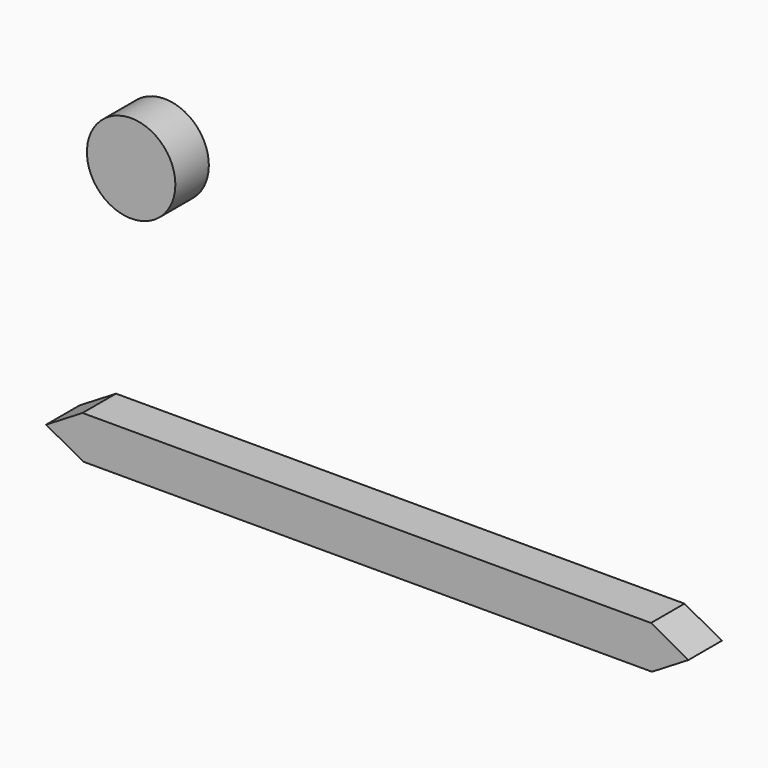
from build123d import *

# Parameters (mm, degrees)
F0_R     = 7.5
F1_DEPTH = 7.1


with BuildPart() as f1:
    # F0 (on Front) → F1 (new body)
    with BuildSketch(Plane.XZ):
        with Locations((-22.463944, 15.396635)):
            Circle(F0_R)
        Polygon((-30.709136, -23.810098), (-30.540865, -31.045675), (65.877408, -31.045675), (65.709136, -23.810098), align=None)
        Polygon((-36.891192, -27.57361), (-30.540865, -31.045675), (-30.709136, -23.810098), align=None)
        Polygon((65.709136, -23.810098), (65.877408, -31.045675), (72.059466, -27.282159), align=None)
    extrude(amount=F1_DEPTH)


solid = f1.part
